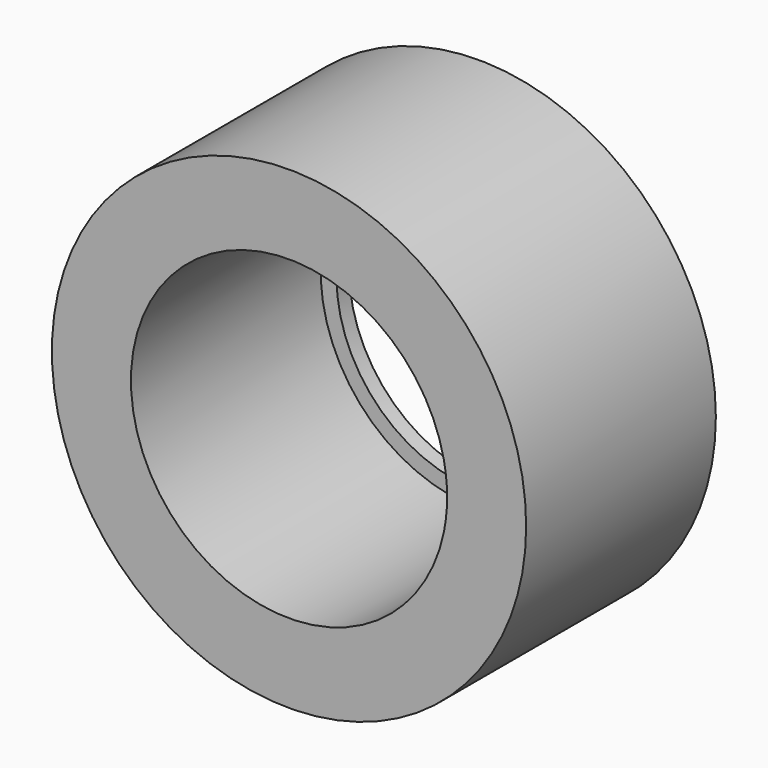
from build123d import *

# Parameters (mm, degrees)
F0_R     = 30
F1_DEPTH = 30
F2_DEPTH = 2


with BuildPart() as f1:
    # F0 (on Front) → F1 (new body)
    with BuildSketch(Plane.XZ):
        Circle(F0_R)
        with BuildLine():
            ThreePointArc((21.1246301743, -4), (-21.5, 0), (21.1246301743, 4))
            ThreePointArc((21.1246301743, 4), (21.4059518446, 2.0087871033), (21.5, 0))
            ThreePointArc((21.5, 0), (21.4059518446, -2.0087871033), (21.1246301743, -4))
        make_face(mode=Mode.SUBTRACT)
        with BuildLine():
            ThreePointArc((19.5959179423, -4), (-20, 0), (19.5959179423, 4))
            Line((19.5959179423, 4), (21.1246301743, 4))
            ThreePointArc((21.1246301743, 4), (-21.5, 0), (21.1246301743, -4))
            Line((21.1246301743, -4), (19.5959179423, -4))
        make_face()
        with BuildLine():
            ThreePointArc((19.5959179423, 4), (19.8987230601, 2.0101792401), (20, 0))
            ThreePointArc((20, 0), (19.8987230601, -2.0101792401), (19.5959179423, -4))
            Line((19.5959179423, -4), (21.1246301743, -4))
            ThreePointArc((21.1246301743, -4), (21.4059518446, -2.0087871033), (21.5, 0))
            ThreePointArc((21.5, 0), (21.4059518446, 2.0087871033), (21.1246301743, 4))
            Line((21.1246301743, 4), (19.5959179423, 4))
        make_face()
    extrude(amount=F1_DEPTH)


with BuildPart() as f2:
    # F0 (on Front) → F2 (new body)
    with BuildSketch(Plane.XZ):
        with BuildLine():
            Line((17.5499287748, 4), (19.5959179423, 4))
            ThreePointArc((19.5959179423, 4), (-20, 0), (19.5959179423, -4))
            Line((19.5959179423, -4), (17.5499287748, -4))
            ThreePointArc((17.5499287748, -4), (-18, 0), (17.5499287748, 4))
        make_face()
        with BuildLine():
            ThreePointArc((19.5959179423, -4), (-20, 0), (19.5959179423, 4))
            Line((19.5959179423, 4), (21.1246301743, 4))
            ThreePointArc((21.1246301743, 4), (-21.5, 0), (21.1246301743, -4))
            Line((21.1246301743, -4), (19.5959179423, -4))
        make_face()
    extrude(amount=-F2_DEPTH)


solid = Compound([f1.part, f2.part])
